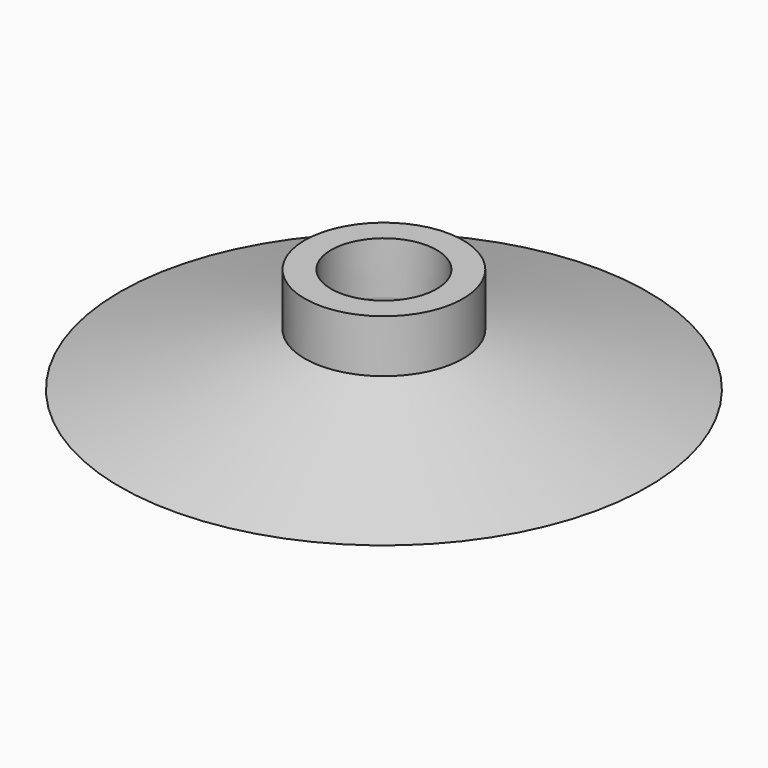
from build123d import *

# Parameters (mm, degrees)
F0_W = 0.775582
F0_H = 0.396875


with BuildPart() as f1:
    # F0 (on Front) → F1 (revolve)
    with BuildSketch(Plane.XZ):
        Polygon((-2.844283, 0), (-2.38125, 0), (-2.38125, 1.190625), (-2.844283, 1.074867), align=None)
        Polygon((-2.844283, 1.074867), (-2.38125, 1.190625), (-2.38125, 1.5875), (-7.9375, 0), (-7.14375, 0), align=None)
        with Locations((-1.993459, 1.389063)):
            Rectangle(F0_W, F0_H)
        Polygon((-2.38125, 1.5875), (-1.605668, 1.5875), (-1.5875, 3.175), (-2.38125, 3.175), align=None)
    revolve(axis=Axis((0, 0, 0.79375), (0, 0, 1)))


solid = f1.part
